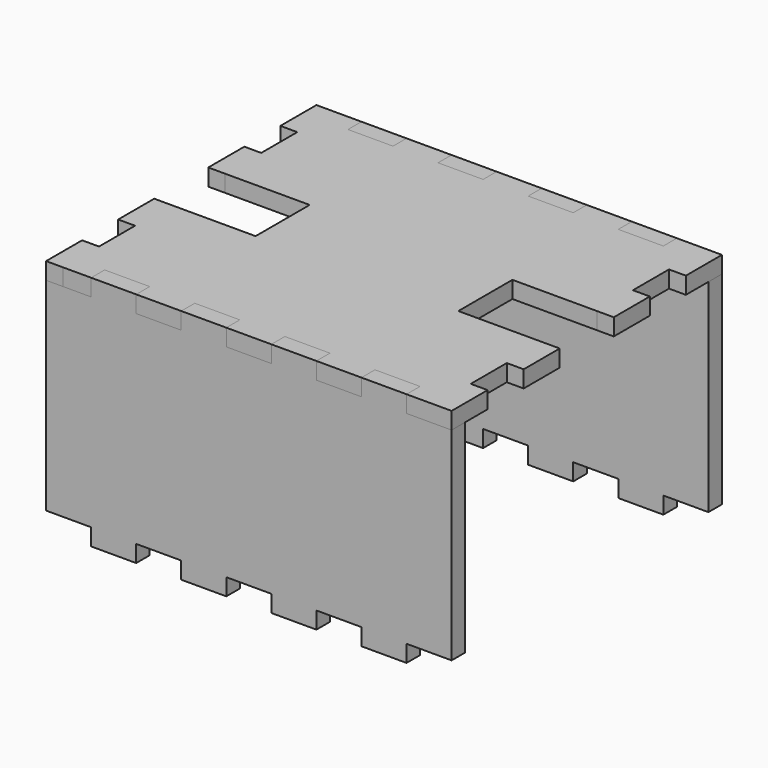
from build123d import *

# Parameters (mm, degrees)
F0_W     = 3.175
F0_H     = 8.466667
F1_DEPTH = 3.175
F2_W     = 8.466666
F2_H     = 3.175
F2_W_2   = 8.466667
F3_DEPTH = 3.175


with BuildPart() as f1:
    # F0 (on Top) → F1 (new body)
    with BuildSketch(Plane.XY):
        Polygon((38.1, 28.575), (38.1, 31.75), (34.925, 31.75), (34.925, 23.283333), (38.1, 23.283333), align=None)
        Polygon((34.925, 23.283333), (34.925, 31.75), (29.633333, 31.75), (29.633333, 28.575), (21.166667, 28.575), (21.166667, 31.75), (12.7, 31.75), (12.7, 28.575), (4.233333, 28.575), (4.233333, 31.75), (-4.233333, 31.75), (-4.233333, 28.575), (-12.7, 28.575), (-12.7, 31.75), (-21.166667, 31.75), (-21.166667, 28.575), (-29.633333, 28.575), (-29.633333, 31.75), (-34.925, 31.75), (-34.925, 23.283333), (-34.925, 14.816667), (-34.925, 6.35), (-19.05, 6.35), (-19.05, -6.35), (-34.925, -6.35), (-34.925, -14.816667), (-34.925, -23.283333), (-34.925, -31.75), (-29.633333, -31.75), (-29.633333, -28.575), (-21.166667, -28.575), (-21.166667, -31.75), (-12.7, -31.75), (-12.7, -28.575), (-4.233333, -28.575), (-4.233333, -31.75), (4.233333, -31.75), (4.233333, -28.575), (12.7, -28.575), (12.7, -31.75), (21.166667, -31.75), (21.166667, -28.575), (29.633333, -28.575), (29.633333, -31.75), (34.925, -31.75), (34.925, -23.283333), (34.925, -14.816667), (34.925, -6.35), (19.05, -6.35), (19.05, 6.35), (34.925, 6.35), (34.925, 14.816667), align=None)
        with Locations((36.5125, 10.583333)):
            Rectangle(F0_W, F0_H)
        with Locations((36.5125, -10.583333)):
            Rectangle(F0_W, F0_H)
        Polygon((38.1, -23.283333), (34.925, -23.283333), (34.925, -31.75), (38.1, -31.75), (38.1, -28.575), align=None)
        with Locations((-36.5125, 27.516666)):
            Rectangle(F0_W, F0_H)
        with Locations((-36.5125, 10.583333)):
            Rectangle(F0_W, F0_H)
        with Locations((-36.5125, -10.583333)):
            Rectangle(F0_W, F0_H)
        with Locations((-36.5125, -27.516666)):
            Rectangle(F0_W, F0_H)
    extrude(amount=F1_DEPTH)


with BuildPart() as f3:
    # F2 (on face) → F3 (new body)
    with BuildSketch(Plane.XZ.offset(28.575)):
        with Locations((-25.4, -39.6875)):
            Rectangle(F2_W, F2_H)
        with Locations((-25.4, 1.5875)):
            Rectangle(F2_W, F2_H)
        with Locations((-8.466666, 1.5875)):
            Rectangle(F2_W_2, F2_H)
        with Locations((8.466666, 1.5875)):
            Rectangle(F2_W_2, F2_H)
        with Locations((25.4, 1.5875)):
            Rectangle(F2_W, F2_H)
        Polygon((-21.166667, 0), (-29.633333, 0), (-38.1, 0), (-38.1, -38.1), (-29.633333, -38.1), (-21.166667, -38.1), (-12.7, -38.1), (-4.233333, -38.1), (4.233333, -38.1), (12.7, -38.1), (21.166667, -38.1), (29.633333, -38.1), (38.1, -38.1), (38.1, 0), (29.633333, 0), (21.166667, 0), (12.7, 0), (4.233333, 0), (-4.233333, 0), (-12.7, 0), align=None)
        with Locations((-25.4, -39.6875)):
            Rectangle(F2_W, F2_H)
        with Locations((-8.466666, -39.6875)):
            Rectangle(F2_W_2, F2_H)
        with Locations((8.466666, -39.6875)):
            Rectangle(F2_W_2, F2_H)
        with Locations((25.4, -39.6875)):
            Rectangle(F2_W, F2_H)
    extrude(amount=F3_DEPTH)


with BuildPart() as f4_1:
    # F4: instance of F3
    add(f3.part.mirror(Plane.XZ))


solid = Compound([f1.part, f3.part, f4_1.part])
